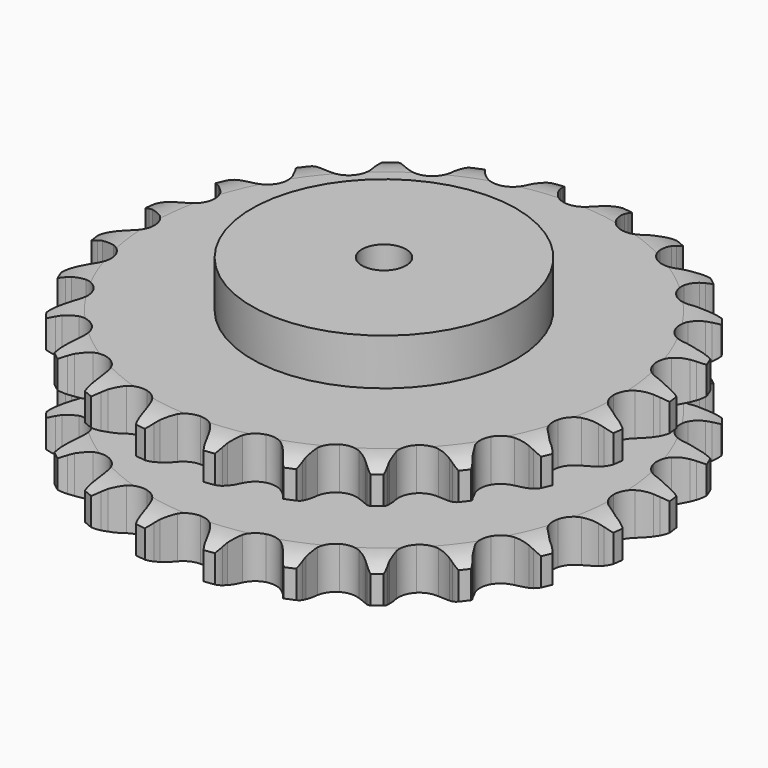
from build123d import *

# Parameters (mm, degrees)
PAD_DEPTH         = 88.4
SKETCH001_R       = 90
PAD001_DEPTH      = 120
SKETCH002_R       = 15
POCKET_DEPTH      = 0.001
POCKET_DEPTH_BACK = 120.001


with BuildPart() as part:
    # Sprocket → Pad (new body)
    with BuildSketch(Plane.XY):
        with BuildLine():
            ThreePointArc((-24.070553, 182.833999), (-20.187999, 178.688107), (-17.440399, 173.716856))
            Line((-17.440399, 173.716856), (-16.083782, 170.330786))
            ThreePointArc((-16.083782, 170.330786), (-13.921664, 165.848252), (-11.168789, 161.702226))
            ThreePointArc((-11.168789, 161.702226), (-6.226518, 157.646209), (0, 156.194389))
            ThreePointArc((0, 156.194389), (6.226518, 157.646209), (11.168789, 161.702226))
            ThreePointArc((11.168789, 161.702226), (13.921664, 165.848252), (16.083782, 170.330786))
            Line((16.083782, 170.330786), (17.440399, 173.716856))
            ThreePointArc((17.440399, 173.716856), (20.187999, 178.688107), (24.070553, 182.833999))
            ThreePointArc((24.070553, 182.833999), (26.747776, 177.824496), (28.115099, 172.311505))
            Line((28.115099, 172.311505), (28.549111, 168.689695))
            ThreePointArc((28.549111, 168.689695), (29.477391, 163.800302), (31.063394, 159.083051))
            ThreePointArc((31.063394, 159.083051), (34.787487, 153.886086), (40.426083, 150.872194))
            ThreePointArc((40.426083, 150.872194), (46.816196, 150.663003), (52.639837, 153.301661))
            Line((52.639837, 153.301661), (59.620592, 160.364116))
            ThreePointArc((59.620592, 160.364116), (60.677412, 161.851291), (61.807362, 163.28369))
            ThreePointArc((61.807362, 163.28369), (65.747995, 167.374419), (70.57129, 170.374165))
            ThreePointArc((70.57129, 170.374165), (71.860734, 164.84244), (71.7546, 159.163409))
            Line((71.7546, 159.163409), (71.236429, 155.552679))
            ThreePointArc((71.236429, 155.552679), (70.867611, 150.589632), (71.178658, 145.62263))
            ThreePointArc((71.178658, 145.62263), (73.430782, 139.638881), (78.097194, 135.268308))
            ThreePointArc((78.097194, 135.268308), (84.215427, 133.412363), (90.523568, 134.453841))
            Line((90.523568, 134.453841), (99.094357, 139.468897))
            ThreePointArc((99.094357, 139.468897), (100.500076, 140.631872), (101.962256, 141.723011))
            ThreePointArc((101.962256, 141.723011), (106.827373, 144.654441), (112.26271, 146.303612))
            ThreePointArc((112.26271, 146.303612), (112.076502, 140.626643), (110.504143, 135.168591))
            Line((110.504143, 135.168591), (109.069103, 131.815005))
            ThreePointArc((109.069103, 131.815005), (107.428321, 127.116527), (106.443214, 122.238266))
            ThreePointArc((106.443214, 122.238266), (107.06989, 115.875517), (110.446111, 110.446111))
            ThreePointArc((110.446111, 110.446111), (115.875517, 107.06989), (122.238266, 106.443214))
            Line((122.238266, 106.443214), (131.815005, 109.069103))
            ThreePointArc((131.815005, 109.069103), (133.473826, 109.828623), (135.168591, 110.504143))
            ThreePointArc((135.168591, 110.504143), (140.626643, 112.076502), (146.303612, 112.26271))
            ThreePointArc((146.303612, 112.26271), (144.654441, 106.827373), (141.723011, 101.962256))
            Line((141.723011, 101.962256), (139.468897, 99.094357))
            ThreePointArc((139.468897, 99.094357), (136.667968, 94.980641), (134.453841, 90.523568))
            ThreePointArc((134.453841, 90.523568), (133.412363, 84.215427), (135.268308, 78.097194))
            ThreePointArc((135.268308, 78.097194), (139.638881, 73.430782), (145.62263, 71.178658))
            Line((145.62263, 71.178658), (155.552679, 71.236429))
            ThreePointArc((155.552679, 71.236429), (157.351555, 71.540736), (159.163409, 71.7546))
            ThreePointArc((159.163409, 71.7546), (164.84244, 71.860734), (170.374165, 70.57129))
            ThreePointArc((170.374165, 70.57129), (167.374419, 65.747995), (163.28369, 61.807362))
            Line((163.28369, 61.807362), (160.364116, 59.620592))
            ThreePointArc((160.364116, 59.620592), (156.593918, 56.371981), (153.301661, 52.639837))
            ThreePointArc((153.301661, 52.639837), (150.663003, 46.816196), (150.872194, 40.426083))
            ThreePointArc((150.872194, 40.426083), (153.886086, 34.787487), (159.083051, 31.063394))
            Line((159.083051, 31.063394), (168.689695, 28.549111))
            ThreePointArc((168.689695, 28.549111), (170.506035, 28.377465), (172.311505, 28.115099))
            ThreePointArc((172.311505, 28.115099), (177.824496, 26.747776), (182.833999, 24.070553))
            ThreePointArc((182.833999, 24.070553), (178.688107, 20.187999), (173.716856, 17.440399))
            Line((173.716856, 17.440399), (170.330786, 16.083782))
            ThreePointArc((170.330786, 16.083782), (165.848252, 13.921664), (161.702226, 11.168789))
            ThreePointArc((161.702226, 11.168789), (157.646209, 6.226518), (156.194389, 0))
            ThreePointArc((156.194389, 0), (157.646209, -6.226518), (161.702226, -11.168789))
            Line((161.702226, -11.168789), (170.330786, -16.083782))
            ThreePointArc((170.330786, -16.083782), (172.040811, -16.719683), (173.716856, -17.440399))
            ThreePointArc((173.716856, -17.440399), (178.688107, -20.187999), (182.833999, -24.070553))
            ThreePointArc((182.833999, -24.070553), (177.824496, -26.747776), (172.311505, -28.115099))
            Line((172.311505, -28.115099), (168.689695, -28.549111))
            ThreePointArc((168.689695, -28.549111), (163.800302, -29.477391), (159.083051, -31.063394))
            ThreePointArc((159.083051, -31.063394), (153.886086, -34.787487), (150.872194, -40.426083))
            ThreePointArc((150.872194, -40.426083), (150.663003, -46.816196), (153.301661, -52.639837))
            Line((153.301661, -52.639837), (160.364116, -59.620592))
            ThreePointArc((160.364116, -59.620592), (161.851291, -60.677412), (163.28369, -61.807362))
            ThreePointArc((163.28369, -61.807362), (167.374419, -65.747995), (170.374165, -70.57129))
            ThreePointArc((170.374165, -70.57129), (164.84244, -71.860734), (159.163409, -71.7546))
            Line((159.163409, -71.7546), (155.552679, -71.236429))
            ThreePointArc((155.552679, -71.236429), (150.589632, -70.867611), (145.62263, -71.178658))
            ThreePointArc((145.62263, -71.178658), (139.638881, -73.430782), (135.268308, -78.097194))
            ThreePointArc((135.268308, -78.097194), (133.412363, -84.215427), (134.453841, -90.523568))
            Line((134.453841, -90.523568), (139.468897, -99.094357))
            ThreePointArc((139.468897, -99.094357), (140.631872, -100.500076), (141.723011, -101.962256))
            ThreePointArc((141.723011, -101.962256), (144.654441, -106.827373), (146.303612, -112.26271))
            ThreePointArc((146.303612, -112.26271), (140.626643, -112.076502), (135.168591, -110.504143))
            Line((135.168591, -110.504143), (131.815005, -109.069103))
            ThreePointArc((131.815005, -109.069103), (127.116527, -107.428321), (122.238266, -106.443214))
            ThreePointArc((122.238266, -106.443214), (115.875517, -107.06989), (110.446111, -110.446111))
            ThreePointArc((110.446111, -110.446111), (107.06989, -115.875517), (106.443214, -122.238266))
            Line((106.443214, -122.238266), (109.069103, -131.815005))
            ThreePointArc((109.069103, -131.815005), (109.828623, -133.473826), (110.504143, -135.168591))
            ThreePointArc((110.504143, -135.168591), (112.076502, -140.626643), (112.26271, -146.303612))
            ThreePointArc((112.26271, -146.303612), (106.827373, -144.654441), (101.962256, -141.723011))
            Line((101.962256, -141.723011), (99.094357, -139.468897))
            ThreePointArc((99.094357, -139.468897), (94.980641, -136.667968), (90.523568, -134.453841))
            ThreePointArc((90.523568, -134.453841), (84.215427, -133.412363), (78.097194, -135.268308))
            ThreePointArc((78.097194, -135.268308), (73.430782, -139.638881), (71.178658, -145.62263))
            Line((71.178658, -145.62263), (71.236429, -155.552679))
            ThreePointArc((71.236429, -155.552679), (71.540736, -157.351555), (71.7546, -159.163409))
            ThreePointArc((71.7546, -159.163409), (71.860734, -164.84244), (70.57129, -170.374165))
            ThreePointArc((70.57129, -170.374165), (65.747995, -167.374419), (61.807362, -163.28369))
            Line((61.807362, -163.28369), (59.620592, -160.364116))
            ThreePointArc((59.620592, -160.364116), (56.371981, -156.593918), (52.639837, -153.301661))
            ThreePointArc((52.639837, -153.301661), (46.816196, -150.663003), (40.426083, -150.872194))
            ThreePointArc((40.426083, -150.872194), (34.787487, -153.886086), (31.063394, -159.083051))
            Line((31.063394, -159.083051), (28.549111, -168.689695))
            ThreePointArc((28.549111, -168.689695), (28.377465, -170.506035), (28.115099, -172.311505))
            ThreePointArc((28.115099, -172.311505), (26.747776, -177.824496), (24.070553, -182.833999))
            ThreePointArc((24.070553, -182.833999), (20.187999, -178.688107), (17.440399, -173.716856))
            Line((17.440399, -173.716856), (16.083782, -170.330786))
            ThreePointArc((16.083782, -170.330786), (13.921664, -165.848252), (11.168789, -161.702226))
            ThreePointArc((11.168789, -161.702226), (6.226518, -157.646209), (0, -156.194389))
            ThreePointArc((0, -156.194389), (-6.226518, -157.646209), (-11.168789, -161.702226))
            Line((-11.168789, -161.702226), (-16.083782, -170.330786))
            ThreePointArc((-16.083782, -170.330786), (-16.719683, -172.040811), (-17.440399, -173.716856))
            ThreePointArc((-17.440399, -173.716856), (-20.187999, -178.688107), (-24.070553, -182.833999))
            ThreePointArc((-24.070553, -182.833999), (-26.747776, -177.824496), (-28.115099, -172.311505))
            Line((-28.115099, -172.311505), (-28.549111, -168.689695))
            ThreePointArc((-28.549111, -168.689695), (-29.477391, -163.800302), (-31.063394, -159.083051))
            ThreePointArc((-31.063394, -159.083051), (-34.787487, -153.886086), (-40.426083, -150.872194))
            ThreePointArc((-40.426083, -150.872194), (-46.816196, -150.663003), (-52.639837, -153.301661))
            Line((-52.639837, -153.301661), (-59.620592, -160.364116))
            ThreePointArc((-59.620592, -160.364116), (-60.677412, -161.851291), (-61.807362, -163.28369))
            ThreePointArc((-61.807362, -163.28369), (-65.747995, -167.374419), (-70.57129, -170.374165))
            ThreePointArc((-70.57129, -170.374165), (-71.860734, -164.84244), (-71.7546, -159.163409))
            Line((-71.7546, -159.163409), (-71.236429, -155.552679))
            ThreePointArc((-71.236429, -155.552679), (-70.867611, -150.589632), (-71.178658, -145.62263))
            ThreePointArc((-71.178658, -145.62263), (-73.430782, -139.638881), (-78.097194, -135.268308))
            ThreePointArc((-78.097194, -135.268308), (-84.215427, -133.412363), (-90.523568, -134.453841))
            Line((-90.523568, -134.453841), (-99.094357, -139.468897))
            ThreePointArc((-99.094357, -139.468897), (-100.500076, -140.631872), (-101.962256, -141.723011))
            ThreePointArc((-101.962256, -141.723011), (-106.827373, -144.654441), (-112.26271, -146.303612))
            ThreePointArc((-112.26271, -146.303612), (-112.076502, -140.626643), (-110.504143, -135.168591))
            Line((-110.504143, -135.168591), (-109.069103, -131.815005))
            ThreePointArc((-109.069103, -131.815005), (-107.428321, -127.116527), (-106.443214, -122.238266))
            ThreePointArc((-106.443214, -122.238266), (-107.06989, -115.875517), (-110.446111, -110.446111))
            ThreePointArc((-110.446111, -110.446111), (-115.875517, -107.06989), (-122.238266, -106.443214))
            Line((-122.238266, -106.443214), (-131.815005, -109.069103))
            ThreePointArc((-131.815005, -109.069103), (-133.473826, -109.828623), (-135.168591, -110.504143))
            ThreePointArc((-135.168591, -110.504143), (-140.626643, -112.076502), (-146.303612, -112.26271))
            ThreePointArc((-146.303612, -112.26271), (-144.654441, -106.827373), (-141.723011, -101.962256))
            Line((-141.723011, -101.962256), (-139.468897, -99.094357))
            ThreePointArc((-139.468897, -99.094357), (-136.667968, -94.980641), (-134.453841, -90.523568))
            ThreePointArc((-134.453841, -90.523568), (-133.412363, -84.215427), (-135.268308, -78.097194))
            ThreePointArc((-135.268308, -78.097194), (-139.638881, -73.430782), (-145.62263, -71.178658))
            Line((-145.62263, -71.178658), (-155.552679, -71.236429))
            ThreePointArc((-155.552679, -71.236429), (-157.351555, -71.540736), (-159.163409, -71.7546))
            ThreePointArc((-159.163409, -71.7546), (-164.84244, -71.860734), (-170.374165, -70.57129))
            ThreePointArc((-170.374165, -70.57129), (-167.374419, -65.747995), (-163.28369, -61.807362))
            Line((-163.28369, -61.807362), (-160.364116, -59.620592))
            ThreePointArc((-160.364116, -59.620592), (-156.593918, -56.371981), (-153.301661, -52.639837))
            ThreePointArc((-153.301661, -52.639837), (-150.663003, -46.816196), (-150.872194, -40.426083))
            ThreePointArc((-150.872194, -40.426083), (-153.886086, -34.787487), (-159.083051, -31.063394))
            Line((-159.083051, -31.063394), (-168.689695, -28.549111))
            ThreePointArc((-168.689695, -28.549111), (-170.506035, -28.377465), (-172.311505, -28.115099))
            ThreePointArc((-172.311505, -28.115099), (-177.824496, -26.747776), (-182.833999, -24.070553))
            ThreePointArc((-182.833999, -24.070553), (-178.688107, -20.187999), (-173.716856, -17.440399))
            Line((-173.716856, -17.440399), (-170.330786, -16.083782))
            ThreePointArc((-170.330786, -16.083782), (-165.848252, -13.921664), (-161.702226, -11.168789))
            ThreePointArc((-161.702226, -11.168789), (-157.646209, -6.226518), (-156.194389, 0))
            ThreePointArc((-156.194389, 0), (-157.646209, 6.226518), (-161.702226, 11.168789))
            Line((-161.702226, 11.168789), (-170.330786, 16.083782))
            ThreePointArc((-170.330786, 16.083782), (-172.040811, 16.719683), (-173.716856, 17.440399))
            ThreePointArc((-173.716856, 17.440399), (-178.688107, 20.187999), (-182.833999, 24.070553))
            ThreePointArc((-182.833999, 24.070553), (-177.824496, 26.747776), (-172.311505, 28.115099))
            Line((-172.311505, 28.115099), (-168.689695, 28.549111))
            ThreePointArc((-168.689695, 28.549111), (-163.800302, 29.477391), (-159.083051, 31.063394))
            ThreePointArc((-159.083051, 31.063394), (-153.886086, 34.787487), (-150.872194, 40.426083))
            ThreePointArc((-150.872194, 40.426083), (-150.663003, 46.816196), (-153.301661, 52.639837))
            Line((-153.301661, 52.639837), (-160.364116, 59.620592))
            ThreePointArc((-160.364116, 59.620592), (-161.851291, 60.677412), (-163.28369, 61.807362))
            ThreePointArc((-163.28369, 61.807362), (-167.374419, 65.747995), (-170.374165, 70.57129))
            ThreePointArc((-170.374165, 70.57129), (-164.84244, 71.860734), (-159.163409, 71.7546))
            Line((-159.163409, 71.7546), (-155.552679, 71.236429))
            ThreePointArc((-155.552679, 71.236429), (-150.589632, 70.867611), (-145.62263, 71.178658))
            ThreePointArc((-145.62263, 71.178658), (-139.638881, 73.430782), (-135.268308, 78.097194))
            ThreePointArc((-135.268308, 78.097194), (-133.412363, 84.215427), (-134.453841, 90.523568))
            Line((-134.453841, 90.523568), (-139.468897, 99.094357))
            ThreePointArc((-139.468897, 99.094357), (-140.631872, 100.500076), (-141.723011, 101.962256))
            ThreePointArc((-141.723011, 101.962256), (-144.654441, 106.827373), (-146.303612, 112.26271))
            ThreePointArc((-146.303612, 112.26271), (-140.626643, 112.076502), (-135.168591, 110.504143))
            Line((-135.168591, 110.504143), (-131.815005, 109.069103))
            ThreePointArc((-131.815005, 109.069103), (-127.116527, 107.428321), (-122.238266, 106.443214))
            ThreePointArc((-122.238266, 106.443214), (-115.875517, 107.06989), (-110.446111, 110.446111))
            ThreePointArc((-110.446111, 110.446111), (-107.06989, 115.875517), (-106.443214, 122.238266))
            Line((-106.443214, 122.238266), (-109.069103, 131.815005))
            ThreePointArc((-109.069103, 131.815005), (-109.828623, 133.473826), (-110.504143, 135.168591))
            ThreePointArc((-110.504143, 135.168591), (-112.076502, 140.626643), (-112.26271, 146.303612))
            ThreePointArc((-112.26271, 146.303612), (-106.827373, 144.654441), (-101.962256, 141.723011))
            Line((-101.962256, 141.723011), (-99.094357, 139.468897))
            ThreePointArc((-99.094357, 139.468897), (-94.980641, 136.667968), (-90.523568, 134.453841))
            ThreePointArc((-90.523568, 134.453841), (-84.215427, 133.412363), (-78.097194, 135.268308))
            ThreePointArc((-78.097194, 135.268308), (-73.430782, 139.638881), (-71.178658, 145.62263))
            Line((-71.178658, 145.62263), (-71.236429, 155.552679))
            ThreePointArc((-71.236429, 155.552679), (-71.540736, 157.351555), (-71.7546, 159.163409))
            ThreePointArc((-71.7546, 159.163409), (-71.860734, 164.84244), (-70.57129, 170.374165))
            ThreePointArc((-70.57129, 170.374165), (-65.747995, 167.374419), (-61.807362, 163.28369))
            Line((-61.807362, 163.28369), (-59.620592, 160.364116))
            ThreePointArc((-59.620592, 160.364116), (-56.371981, 156.593918), (-52.639837, 153.301661))
            ThreePointArc((-52.639837, 153.301661), (-46.816196, 150.663003), (-40.426083, 150.872194))
            ThreePointArc((-40.426083, 150.872194), (-34.787487, 153.886086), (-31.063394, 159.083051))
            Line((-31.063394, 159.083051), (-28.549111, 168.689695))
            ThreePointArc((-28.549111, 168.689695), (-28.377465, 170.506035), (-28.115099, 172.311505))
            ThreePointArc((-28.115099, 172.311505), (-26.747776, 177.824496), (-24.070553, 182.833999))
        make_face()
    extrude(amount=PAD_DEPTH)

    # Sketch → Groove (revolve, cut)
    with BuildSketch(Plane.XZ):
        with BuildLine():
            ThreePointArc((159.128451, 0), (169.61654, 1.268279), (179.5, 5))
            Line((179.5, 5), (179.5, 23.8))
            ThreePointArc((179.5, 23.8), (169.61654, 27.531721), (159.128451, 28.8))
            Line((90, 28.8), (159.128451, 28.8))
            Line((90, 59.6), (90, 28.8))
            Line((159.128451, 59.6), (90, 59.6))
            ThreePointArc((159.128451, 59.6), (169.61654, 60.868279), (179.5, 64.6))
            Line((179.5, 64.6), (179.5, 83.4))
            ThreePointArc((179.5, 83.4), (169.61654, 87.131721), (159.128451, 88.4))
            Line((159.128451, 88.4), (189.5, 88.4))
            Line((189.5, 88.4), (189.5, 0))
            Line((159.128451, 0), (189.5, 0))
        make_face()
    revolve(axis=Axis((0, 0, 0), (0, 0, 1)), mode=Mode.SUBTRACT)

    # Sketch001 → Pad001 (join)
    with BuildSketch(Plane.XY):
        Circle(SKETCH001_R)
    extrude(amount=PAD001_DEPTH)

    # Sketch002 → Pocket (cut, two sides)
    with BuildSketch(Plane.XY) as pocket_sk:
        Circle(SKETCH002_R)
    extrude(amount=-POCKET_DEPTH, mode=Mode.SUBTRACT)
    extrude(pocket_sk.sketch, amount=POCKET_DEPTH_BACK, mode=Mode.SUBTRACT)


solid = part.part
